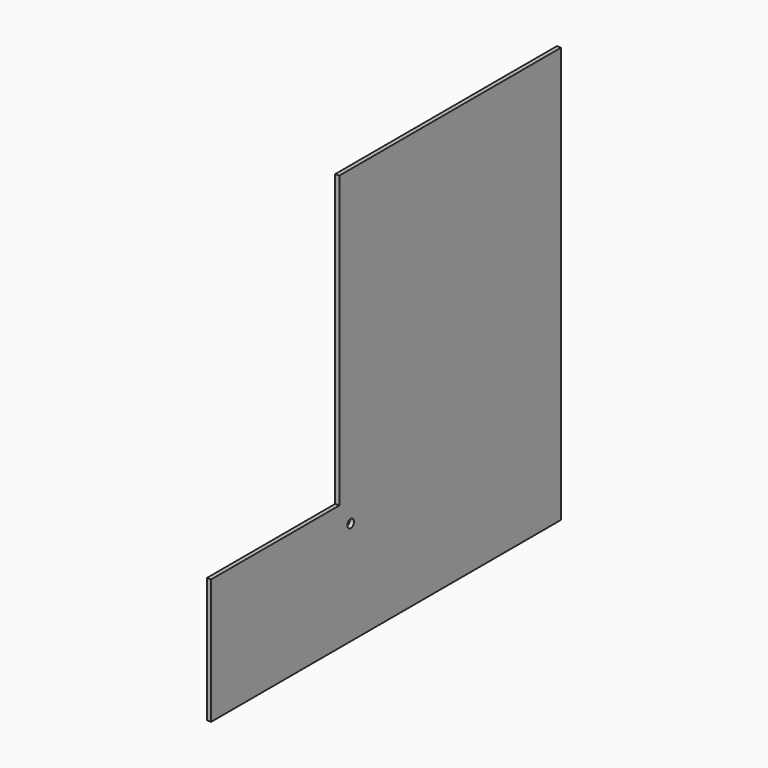
from build123d import *

# Parameters (mm, degrees)
F0_R     = 3.025
F1_DEPTH = 3


with BuildPart() as f1:
    # F0 (on Right) → F1 (new body)
    with BuildSketch(Plane.YZ):
        Polygon((0, 74.859768), (0, 0), (200.054362, 0), (200.054362, 300), (0, 300), (0, 90.494357), align=None)
        with Locations((10.257743, 74.859768)):
            Circle(F0_R, mode=Mode.SUBTRACT)
        Polygon((-115.605228, 0), (0, 0), (0, 74.859768), (0, 90.494357), (-115.605228, 90.494357), align=None)
    extrude(amount=F1_DEPTH)


solid = f1.part
